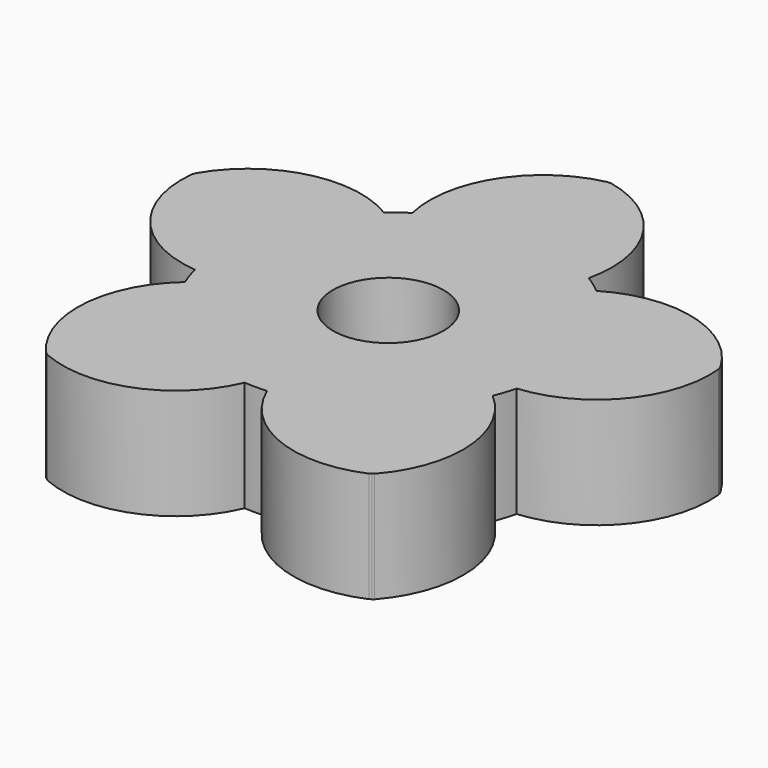
from build123d import *

# Parameters (mm, degrees)
F1_DEPTH = 5
F2_R     = 2.5
F3_DEPTH = 5.001


with BuildPart() as f1:
    # F0 (on Top) → F1 (new body)
    with BuildSketch(Plane.XY):
        with BuildLine():
            ThreePointArc((7.273025, -1.831149), (7.44304, -0.922581), (7.5, 0))
            ThreePointArc((7.5, 0), (6.793658, 3.177453), (4.807679, 5.756407))
            ThreePointArc((4.807679, 5.756407), (4.408389, 6.067627), (3.989014, 6.351202))
            ThreePointArc((3.989014, 6.351202), (0, 7.5), (-3.989014, 6.351202))
            ThreePointArc((-3.989014, 6.351202), (-4.408389, 6.067627), (-4.807679, 5.756407))
            ThreePointArc((-4.807679, 5.756407), (-7.132924, 2.317627), (-7.273025, -1.831149))
            ThreePointArc((-7.273025, -1.831149), (-7.132924, -2.317627), (-6.960323, -2.793547))
            ThreePointArc((-6.960323, -2.793547), (-4.408389, -6.067627), (-0.505963, -7.482914))
            ThreePointArc((-0.505963, -7.482914), (0, -7.5), (0.505963, -7.482914))
            ThreePointArc((0.505963, -7.482914), (4.408389, -6.067627), (6.960323, -2.793547))
            ThreePointArc((6.960323, -2.793547), (7.132924, -2.317627), (7.273025, -1.831149))
        make_face()
        with BuildLine():
            ThreePointArc((4.807679, 5.756407), (6.793658, 3.177453), (7.5, 0))
            ThreePointArc((7.5, 0), (7.44304, -0.922581), (7.273025, -1.831149))
            ThreePointArc((7.273025, -1.831149), (10.763626, -0.000661), (11.919108, 3.767607))
            Line((11.919108, 3.767607), (11.888206, 3.862712))
            Line((11.888206, 3.862712), (11.857305, 3.957818))
            ThreePointArc((11.857305, 3.957818), (8.707568, 6.327235), (4.807679, 5.756407))
        make_face()
        with BuildLine():
            ThreePointArc((-3.989014, 6.351202), (0, 7.5), (3.989014, 6.351202))
            ThreePointArc((3.989014, 6.351202), (3.326772, 10.236612), (0.1, 12.5))
            Line((0.1, 12.5), (0, 12.5))
            Line((0, 12.5), (-0.1, 12.5))
            ThreePointArc((-0.1, 12.5), (-3.326772, 10.236612), (-3.989014, 6.351202))
        make_face()
        with BuildLine():
            ThreePointArc((7.428217, -10.053934), (8.708345, -6.326166), (6.960323, -2.793547))
            ThreePointArc((6.960323, -2.793547), (4.408389, -6.067627), (0.505963, -7.482914))
            ThreePointArc((0.505963, -7.482914), (3.325515, -10.237021), (7.266414, -10.171491))
            Line((7.266414, -10.171491), (7.347316, -10.112712))
            Line((7.347316, -10.112712), (7.428217, -10.053934))
        make_face()
        with BuildLine():
            ThreePointArc((-7.273025, -1.831149), (-7.132924, 2.317627), (-4.807679, 5.756407))
            ThreePointArc((-4.807679, 5.756407), (-8.707568, 6.327235), (-11.857305, 3.957818))
            Line((-11.857305, 3.957818), (-11.888206, 3.862712))
            Line((-11.888206, 3.862712), (-11.919108, 3.767607))
            ThreePointArc((-11.919108, 3.767607), (-10.763626, -0.000661), (-7.273025, -1.831149))
        make_face()
        with BuildLine():
            ThreePointArc((-7.266414, -10.171491), (-3.325515, -10.237021), (-0.505963, -7.482914))
            ThreePointArc((-0.505963, -7.482914), (-4.408389, -6.067627), (-6.960323, -2.793547))
            ThreePointArc((-6.960323, -2.793547), (-8.708345, -6.326166), (-7.428217, -10.053934))
            Line((-7.428217, -10.053934), (-7.347316, -10.112712))
            Line((-7.347316, -10.112712), (-7.266414, -10.171491))
        make_face()
    extrude(amount=F1_DEPTH)

    # F2 (on face) → F3 (cut, through all)
    with BuildSketch(Plane.XY.offset(5)):
        Circle(F2_R)
    extrude(amount=-F3_DEPTH, mode=Mode.SUBTRACT)


solid = f1.part
